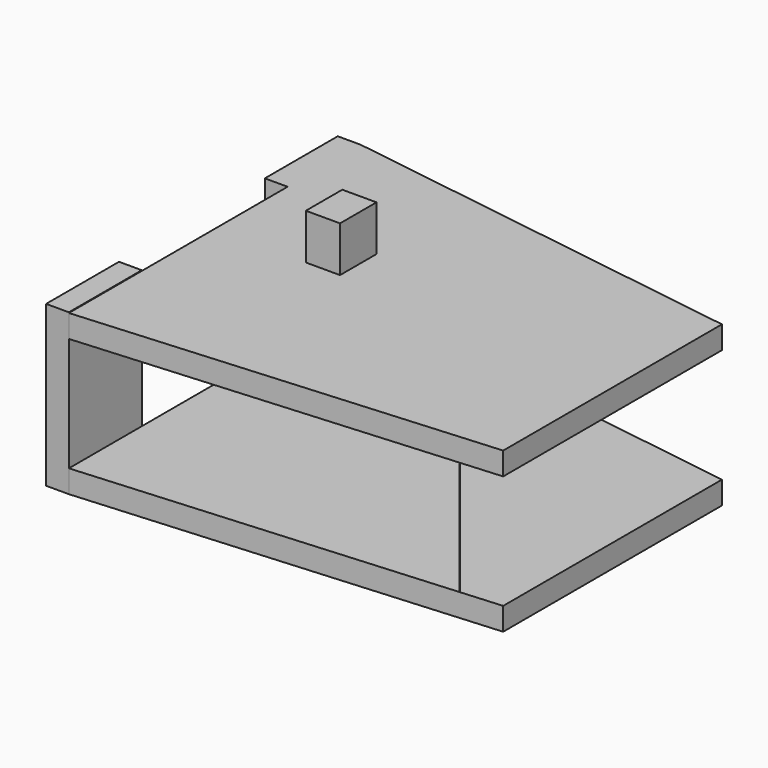
from build123d import *

# Parameters (mm, degrees)
F0_W      = 5
F0_H      = 20
F1_DEPTH  = 35
F2_W      = 90
F2_H      = 25
F3_DEPTH  = 79.8669262783
F4_W      = 20
F4_H      = 35.1404882967
F5_DEPTH  = 5
F6_W      = 60
F6_H      = 25
F7_DEPTH  = 8.9178062806
F8_W      = 8.9168062806
F8_H      = 25
F9_DEPTH  = 12.5
F10_W     = 0.6563552694
F10_H     = 25
F11_DEPTH = 5
F12_W     = 7.5
F12_H     = 10
F13_DEPTH = 10


with BuildPart() as f1:
    # F0 (on Top) → F1 (new body)
    with BuildSketch(Plane.XY):
        Polygon((1.4652782414, 46.6247905791), (-88.5347217586, 60), (-88.5347217586, 40), (-88.5347217586, 0), (-88.5347217586, -20), (1.4652782414, -13.3752094209), align=None)
        with Locations((-91.0347217586, 50)):
            Rectangle(F0_W, F0_H)
        with Locations((-91.0347217586, -10)):
            Rectangle(F0_W, F0_H)
    extrude(amount=F1_DEPTH)

    # F2 (on face) → F3 (cut, through all)
    with BuildSketch(Plane(origin=(6.8110049505, 45.8303437542, 0), x_dir=(-0.9891366412, 0.1469989969, 0), z_dir=(0.1469989969, 0.9891366412, 0))):
        with Locations((50.404437048, 17.5)):
            Rectangle(F2_W, F2_H)
    extrude(amount=-F3_DEPTH, mode=Mode.SUBTRACT)

    # F4 (on face) → F5 (join)
    with BuildSketch(Plane(origin=(-93.5347217586, 0, 0), x_dir=(0, -1, 0), z_dir=(-1, 0, 0))):
        with Locations((10, 17.5702441484)):
            Rectangle(F4_W, F4_H)
    extrude(amount=-F5_DEPTH)

    # F6 (on face) → F7 (cut, through all)
    with BuildSketch(Plane.YZ.offset(1.4652782414)):
        with Locations((16.6247905791, 17.5)):
            Rectangle(F6_W, F6_H)
    extrude(amount=-F7_DEPTH, mode=Mode.SUBTRACT)

    # F8 (on face) → F9 (cut, symmetric)
    with BuildSketch(Plane(origin=(0, -13.3752094209, 0), x_dir=(-1, 0, 0), z_dir=(0, 1, 0))):
        with Locations((2.9931248989, 17.5)):
            Rectangle(F8_W, F8_H)
    extrude(amount=F9_DEPTH, both=True, mode=Mode.SUBTRACT)

    # F10 (on face) → F11 (cut, symmetric)
    with BuildSketch(Plane.YZ.offset(-7.4515280392)):
        with Locations((-13.7033870556, 17.5)):
            Rectangle(F10_W, F10_H)
    extrude(amount=F11_DEPTH, both=True, mode=Mode.SUBTRACT)

    # F12 (on face) → F13 (join)
    with BuildSketch(Plane.XY.offset(35)):
        with Locations((-64.7847217586, 25)):
            Rectangle(F12_W, F12_H)
    extrude(amount=F13_DEPTH)


solid = f1.part
